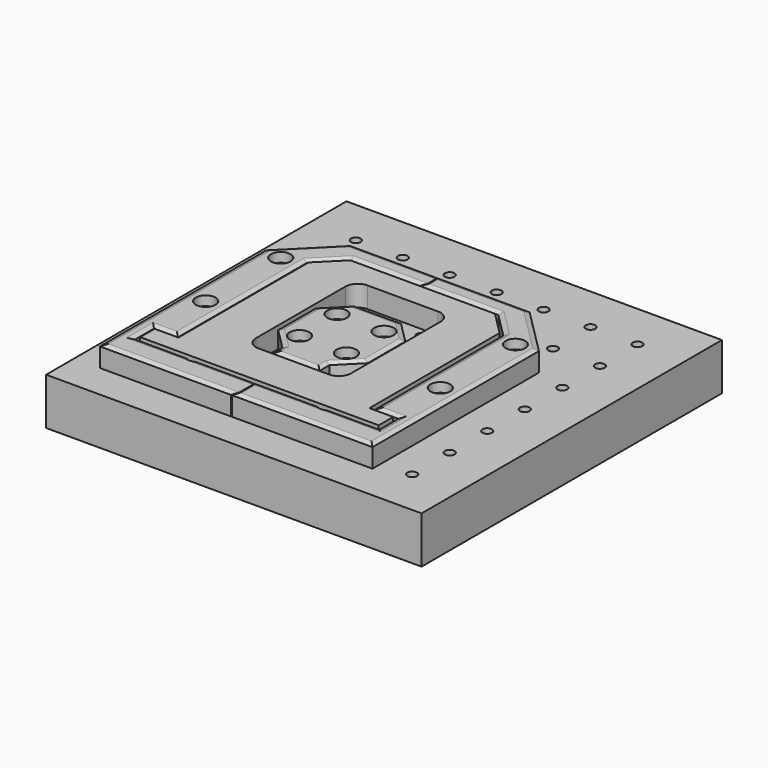
from build123d import *

# Parameters (mm, degrees)
F2_W      = 200
F2_H      = 200
F2_R      = 2.5625
F3_DEPTH  = 25
F6_DEPTH  = 11.11
F7_R      = 3.5
F8_DEPTH  = 11.11
F7_W      = 25
F7_H      = 6.635
F9_R      = 5.25
F10_DEPTH = 5
F11_SIZE2 = 1
F11_SIZE  = 2.5
F12_SIZE2 = 1
F12_SIZE  = 2.5
F13_R     = 3.4925
F14_DEPTH = 13.335
F15_R     = 4.191
F16_DEPTH = 1.75
F17_R     = 3.4925
F18_DEPTH = 13.335
F19_R     = 4.191
F20_DEPTH = 1.75
F21_R     = 3.4925
F22_DEPTH = 13.335
F23_R     = 4.191
F24_DEPTH = 1.75
F25_R     = 3.4925
F26_DEPTH = 13.335
F27_R     = 4.191
F28_DEPTH = 1.75
F29_R     = 3.4925
F30_DEPTH = 13.335
F31_R     = 4.191
F32_DEPTH = 1.75
F33_R     = 3.4925
F34_DEPTH = 13.335
F35_R     = 5.1816295388
F36_DEPTH = 1.75
F38_DEPTH = 11.11


with BuildPart() as f3:
    # F2 (on Top) → F3 (new body)
    with BuildSketch(Plane.XY):
        Rectangle(F2_W, F2_H)
        with Locations((-75, -75)):
            Circle(F2_R, mode=Mode.SUBTRACT)
        with Locations((-50, -75)):
            Circle(F2_R, mode=Mode.SUBTRACT)
        with Locations((-25, -75)):
            Circle(F2_R, mode=Mode.SUBTRACT)
        with Locations((-75, -50)):
            Circle(F2_R, mode=Mode.SUBTRACT)
        with Locations((-75, -25)):
            Circle(F2_R, mode=Mode.SUBTRACT)
        with Locations((-50, -50)):
            Circle(F2_R, mode=Mode.SUBTRACT)
        with Locations((-25, -50)):
            Circle(F2_R, mode=Mode.SUBTRACT)
        with Locations((-50, -25)):
            Circle(F2_R, mode=Mode.SUBTRACT)
        with Locations((-25, -25)):
            Circle(F2_R, mode=Mode.SUBTRACT)
        with Locations((0, -75)):
            Circle(F2_R, mode=Mode.SUBTRACT)
        with Locations((25, -75)):
            Circle(F2_R, mode=Mode.SUBTRACT)
        with Locations((50, -75)):
            Circle(F2_R, mode=Mode.SUBTRACT)
        with Locations((75, -75)):
            Circle(F2_R, mode=Mode.SUBTRACT)
        with Locations((0, -50)):
            Circle(F2_R, mode=Mode.SUBTRACT)
        with Locations((25, -50)):
            Circle(F2_R, mode=Mode.SUBTRACT)
        with Locations((0, -25)):
            Circle(F2_R, mode=Mode.SUBTRACT)
        with Locations((25, -25)):
            Circle(F2_R, mode=Mode.SUBTRACT)
        with Locations((50, -50)):
            Circle(F2_R, mode=Mode.SUBTRACT)
        with Locations((75, -50)):
            Circle(F2_R, mode=Mode.SUBTRACT)
        with Locations((50, -25)):
            Circle(F2_R, mode=Mode.SUBTRACT)
        with Locations((75, -25)):
            Circle(F2_R, mode=Mode.SUBTRACT)
        with Locations((-75, 0)):
            Circle(F2_R, mode=Mode.SUBTRACT)
        with Locations((-75, 25)):
            Circle(F2_R, mode=Mode.SUBTRACT)
        with Locations((-50, 0)):
            Circle(F2_R, mode=Mode.SUBTRACT)
        with Locations((-25, 0)):
            Circle(F2_R, mode=Mode.SUBTRACT)
        with Locations((-50, 25)):
            Circle(F2_R, mode=Mode.SUBTRACT)
        with Locations((-25, 25)):
            Circle(F2_R, mode=Mode.SUBTRACT)
        with Locations((-75, 50)):
            Circle(F2_R, mode=Mode.SUBTRACT)
        with Locations((-75, 75)):
            Circle(F2_R, mode=Mode.SUBTRACT)
        with Locations((-50, 50)):
            Circle(F2_R, mode=Mode.SUBTRACT)
        with Locations((-25, 50)):
            Circle(F2_R, mode=Mode.SUBTRACT)
        with Locations((-50, 75)):
            Circle(F2_R, mode=Mode.SUBTRACT)
        with Locations((-25, 75)):
            Circle(F2_R, mode=Mode.SUBTRACT)
        Circle(F2_R, mode=Mode.SUBTRACT)
        with Locations((25, 0)):
            Circle(F2_R, mode=Mode.SUBTRACT)
        with Locations((0, 25)):
            Circle(F2_R, mode=Mode.SUBTRACT)
        with Locations((25, 25)):
            Circle(F2_R, mode=Mode.SUBTRACT)
        with Locations((50, 0)):
            Circle(F2_R, mode=Mode.SUBTRACT)
        with Locations((75, 0)):
            Circle(F2_R, mode=Mode.SUBTRACT)
        with Locations((50, 25)):
            Circle(F2_R, mode=Mode.SUBTRACT)
        with Locations((75, 25)):
            Circle(F2_R, mode=Mode.SUBTRACT)
        with Locations((0, 50)):
            Circle(F2_R, mode=Mode.SUBTRACT)
        with Locations((25, 50)):
            Circle(F2_R, mode=Mode.SUBTRACT)
        with Locations((0, 75)):
            Circle(F2_R, mode=Mode.SUBTRACT)
        with Locations((25, 75)):
            Circle(F2_R, mode=Mode.SUBTRACT)
        with Locations((50, 50)):
            Circle(F2_R, mode=Mode.SUBTRACT)
        with Locations((75, 50)):
            Circle(F2_R, mode=Mode.SUBTRACT)
        with Locations((50, 75)):
            Circle(F2_R, mode=Mode.SUBTRACT)
        with Locations((75, 75)):
            Circle(F2_R, mode=Mode.SUBTRACT)
    extrude(amount=F3_DEPTH)


with BuildPart() as f6:
    # F5 (on offset) → F6 (new body)
    with BuildSketch(Plane.XY.offset(26)):
        Polygon((-63.375, 28.9930577361), (-63.375, -57.675), (38.375, -57.675), (38.375, 28.9930577361), (26.0430577361, 41.325), (-51.0430577361, 41.325), align=None)
        with BuildLine():
            ThreePointArc((-37.85, 21.635), (-35.9461940777, 26.2311940777), (-31.35, 28.135))
            Line((-31.35, 28.135), (6.35, 28.135))
            ThreePointArc((6.35, 28.135), (10.9461940777, 26.2311940777), (12.85, 21.635))
            Line((12.85, 21.635), (12.85, -37.985))
            ThreePointArc((12.85, -37.985), (10.9461940777, -42.5811940777), (6.35, -44.485))
            Line((6.35, -44.485), (-31.35, -44.485))
            ThreePointArc((-31.35, -44.485), (-35.9461940777, -42.5811940777), (-37.85, -37.985))
            Line((-37.85, -37.985), (-37.85, 21.635))
        make_face(mode=Mode.SUBTRACT)
        Polygon((38.375, -57.675), (-63.375, -57.675), (-76.0625, -57.675), (-76.0625, -67.325), (51.0625, -67.325), (51.0625, -57.675), align=None)
    extrude(amount=F6_DEPTH)


with BuildPart() as f8:
    # F7 (on offset) → F8 (new body, through all)
    with BuildSketch(Plane.XY.offset(26)):
        Polygon((-85.125, 28.0069228938), (-85.125, -82.825), (60.125, -82.825), (60.125, 28.0069228938), (35.3069228938, 52.825), (-60.3069228938, 52.825), align=None)
        with Locations((-75, -25)):
            Circle(F7_R, mode=Mode.SUBTRACT)
        with Locations((50, -25)):
            Circle(F7_R, mode=Mode.SUBTRACT)
        with Locations((-75, 25)):
            Circle(F7_R, mode=Mode.SUBTRACT)
        Polygon((-77.5625, -56.175), (-64.875, -56.175), (-64.875, 29.6143780797), (-51.6643780797, 42.825), (26.6643780797, 42.825), (39.875, 29.6143780797), (39.875, -56.175), (52.5625, -56.175), (52.5625, -68.825), (-77.5625, -68.825), align=None, mode=Mode.SUBTRACT)
        with Locations((50, 25)):
            Circle(F7_R, mode=Mode.SUBTRACT)
    extrude(amount=F8_DEPTH)


with BuildPart() as f8b:
    # F7 (on offset) → F8, piece 2 (new body, through all)
    with BuildSketch(Plane.XY.offset(26)):
        Polygon((-36.35, 0), (-36.35, -25), (-25, -36.35), (0, -36.35), (11.35, -25), (11.35, 0), (0, 11.35), (-25, 11.35), align=None)
        with Locations((-25, -25)):
            Circle(F7_R, mode=Mode.SUBTRACT)
        with Locations((0, -25)):
            Circle(F7_R, mode=Mode.SUBTRACT)
        with Locations((-25, 0)):
            Circle(F7_R, mode=Mode.SUBTRACT)
        Circle(F7_R, mode=Mode.SUBTRACT)
        with Locations((-12.5, -39.6675)):
            Rectangle(F7_W, F7_H)
    extrude(amount=F8_DEPTH)


with BuildPart() as f10_tool:
    # F9 (on face) → F10 (new body)
    with BuildSketch(Plane.XY.offset(37.11)):
        with Locations((-75, 25)):
            Circle(F9_R)
        with Locations((-75, -25)):
            Circle(F9_R)
        with Locations((50, 25)):
            Circle(F9_R)
        with Locations((50, -25)):
            Circle(F9_R)
        Circle(F9_R)
        with Locations((0, -25)):
            Circle(F9_R)
        with Locations((-25, -25)):
            Circle(F9_R)
        with Locations((-25, 0)):
            Circle(F9_R)
    extrude(amount=-F10_DEPTH)


with BuildPart() as f8_1:
    add(f8.part)

    # F10: cut by f10_tool
    add(f10_tool.part, mode=Mode.SUBTRACT)

    # F12
    f12_edges = [f8_1.edges().sort_by_distance(p)[0] for p in [
        (-64.875, -13.280311, 37.11),
        (-58.269689, 36.219689, 37.11),
        (-12.5, 42.825, 37.11),
        (33.269689, 36.219689, 37.11),
        (39.875, -13.280311, 37.11),
        (46.21875, -56.175, 37.11),
        (52.5625, -62.5, 37.11),
        (-12.5, -68.825, 37.11),
        (-77.5625, -62.5, 37.11),
        (-71.21875, -56.175, 37.11),
        (-12.5, -82.825, 37.11),
        (-85.125, -27.409039, 37.11),
        (-72.715961, 40.415961, 37.11),
        (-12.5, 52.825, 37.11),
        (47.715961, 40.415961, 37.11),
        (60.125, -27.409039, 37.11),
    ]]
    f12_side = f8_1.faces().sort_by_distance((-83.137577, -27.409039, 37.11))[0]
    chamfer(f12_edges, length=F12_SIZE, length2=F12_SIZE2, reference=f12_side)

    # F25 (on face) → F26 (cut)
    with BuildSketch(Plane.YZ.offset(-64.875)):
        with Locations((-39.2803109602, 31.555)):
            Circle(F25_R)
        with Locations((-13.2803109602, 31.555)):
            Circle(F25_R)
        with Locations((12.7196890398, 31.555)):
            Circle(F25_R)
    extrude(amount=-F26_DEPTH, mode=Mode.SUBTRACT)

    # F27 (on face) → F28 (cut)
    with BuildSketch(Plane.YZ.offset(-64.875)):
        with Locations((-39.2803109602, 31.555)):
            Circle(F27_R)
        with Locations((-13.2803109602, 31.555)):
            Circle(F27_R)
        with Locations((12.7196890398, 31.555)):
            Circle(F27_R)
    extrude(amount=-F28_DEPTH, mode=Mode.SUBTRACT)

    # F29 (on face) → F30 (cut)
    with BuildSketch(Plane(origin=(39.875, 0, 0), x_dir=(0, -1, 0), z_dir=(-1, 0, 0))):
        with Locations((-12.7196890398, 31.555)):
            Circle(F29_R)
        with Locations((13.2803109602, 31.555)):
            Circle(F29_R)
        with Locations((39.2803109602, 31.555)):
            Circle(F29_R)
    extrude(amount=-F30_DEPTH, mode=Mode.SUBTRACT)

    # F31 (on face) → F32 (cut)
    with BuildSketch(Plane(origin=(39.875, 0, 0), x_dir=(0, -1, 0), z_dir=(-1, 0, 0))):
        with Locations((-12.7196890398, 31.555)):
            Circle(F31_R)
        with Locations((13.2803109602, 31.555)):
            Circle(F31_R)
        with Locations((39.2803109602, 31.555)):
            Circle(F31_R)
    extrude(amount=-F32_DEPTH, mode=Mode.SUBTRACT)

    # F33 (on face) → F34 (cut)
    with BuildSketch(Plane(origin=(0, -68.825, 0), x_dir=(-1, 0, 0), z_dir=(0, 1, 0))):
        with Locations((-22.5, 31.555)):
            Circle(F33_R)
        with Locations((47.5, 31.555)):
            Circle(F33_R)
    extrude(amount=-F34_DEPTH, mode=Mode.SUBTRACT)

    # F35 (on face) → F36 (cut)
    with BuildSketch(Plane(origin=(0, -68.825, 0), x_dir=(-1, 0, 0), z_dir=(0, 1, 0))):
        with Locations((-22.5, 31.555)):
            Circle(F35_R)
        with Locations((47.5, 31.555)):
            Circle(F35_R)
    extrude(amount=-F36_DEPTH, mode=Mode.SUBTRACT)

    # F37 (on face) → F38 (cut, through all)
    with BuildSketch(Plane.XY.offset(37.11)):
        Polygon((-12.25, 50.325), (-16.25, 54.325), (-16.75, 54.325), (-12.75, 50.325), (-12.75, 45.325), (-16.75, 41.325), (-16.25, 41.325), (-12.25, 45.325), align=None)
        Polygon((-16.25, -67.325), (-16.75, -67.325), (-12.75, -71.325), (-12.75, -80.325), (-16.75, -84.325), (-16.25, -84.325), (-12.25, -80.325), (-12.25, -71.325), align=None)
    extrude(amount=-F38_DEPTH, mode=Mode.SUBTRACT)


with BuildPart() as f8b_1:
    add(f8b.part)

    # F10: cut by f10_tool
    add(f10_tool.part, mode=Mode.SUBTRACT)

    # F11
    f11_edges = [f8b_1.edges().sort_by_distance(p)[0] for p in [
        (-12.5, 11.35, 37.11),
        (-30.675, 5.675, 37.11),
        (-36.35, -12.5, 37.11),
        (-30.675, -30.675, 37.11),
        (-25, -39.6675, 37.11),
        (-12.5, -42.985, 37.11),
        (0, -39.6675, 37.11),
        (5.675, -30.675, 37.11),
        (11.35, -12.5, 37.11),
        (5.675, 5.675, 37.11),
    ]]
    f11_side = f8b_1.faces().sort_by_distance((-12.5, -14.952922, 37.11))[0]
    chamfer(f11_edges, length=F11_SIZE, length2=F11_SIZE2, reference=f11_side)

    # F13 (on face) → F14 (cut)
    with BuildSketch(Plane.YZ.offset(11.35)):
        with Locations((-12.5, 31.555)):
            Circle(F13_R)
    extrude(amount=-F14_DEPTH, mode=Mode.SUBTRACT)

    # F15 (on face) → F16 (cut)
    with BuildSketch(Plane.YZ.offset(11.35)):
        with Locations((-12.5, 31.555)):
            Circle(F15_R)
    extrude(amount=-F16_DEPTH, mode=Mode.SUBTRACT)

    # F17 (on face) → F18 (cut)
    with BuildSketch(Plane(origin=(-36.35, 0, 0), x_dir=(0, -1, 0), z_dir=(-1, 0, 0))):
        with Locations((12.5, 31.555)):
            Circle(F17_R)
    extrude(amount=-F18_DEPTH, mode=Mode.SUBTRACT)

    # F19 (on face) → F20 (cut)
    with BuildSketch(Plane(origin=(-36.35, 0, 0), x_dir=(0, -1, 0), z_dir=(-1, 0, 0))):
        with Locations((12.5, 31.555)):
            Circle(F19_R)
    extrude(amount=-F20_DEPTH, mode=Mode.SUBTRACT)

    # F21 (on face) → F22 (cut)
    with BuildSketch(Plane.XZ.offset(42.985)):
        with Locations((-12.5, 31.555)):
            Circle(F21_R)
    extrude(amount=-F22_DEPTH, mode=Mode.SUBTRACT)

    # F23 (on face) → F24 (cut)
    with BuildSketch(Plane.XZ.offset(42.985)):
        with Locations((-12.5, 31.555)):
            Circle(F23_R)
    extrude(amount=-F24_DEPTH, mode=Mode.SUBTRACT)


solid = Compound([f3.part, f6.part, f8_1.part, f8b_1.part])
